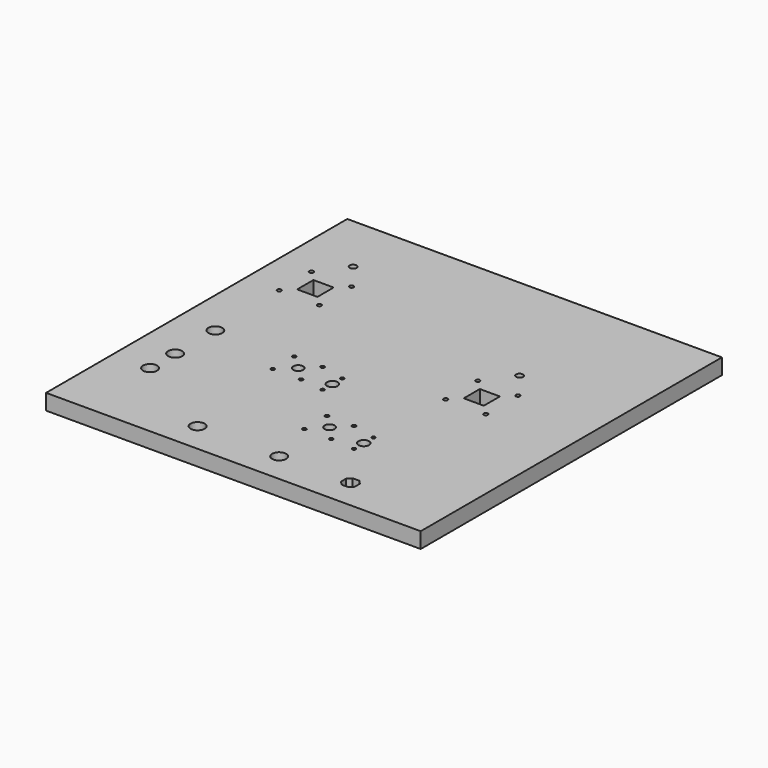
from build123d import *

# Parameters (mm, degrees)
F0_W     = 597
F0_H     = 600
F0_R     = 11.15
F0_R_2   = 2.75
F0_R_3   = 3
F0_R_4   = 8
F0_R_5   = 8.5
F0_R_6   = 3.3
F0_W_2   = 32.3
F0_H_2   = 32.3
F0_R_7   = 5.5
F0_W_3   = 32
F0_H_3   = 32
F1_DEPTH = 25


with BuildPart() as f1:
    # F0 (on Top) → F1 (new body)
    with BuildSketch(Plane.XY):
        Rectangle(F0_W, F0_H)
        with Locations((-239.0813, -167.15)):
            Circle(F0_R, mode=Mode.SUBTRACT)
        with Locations((-95.05, -252.5)):
            Circle(F0_R, mode=Mode.SUBTRACT)
        with Locations((-239.0813, -117.15)):
            Circle(F0_R, mode=Mode.SUBTRACT)
        with Locations((-239.0813, -37.15)):
            Circle(F0_R, mode=Mode.SUBTRACT)
        with Locations((-35.05, -78.5)):
            Circle(F0_R_2, mode=Mode.SUBTRACT)
        with Locations((-118.4, -73.5)):
            Circle(F0_R_3, mode=Mode.SUBTRACT)
        with Locations((-95.05, -52)):
            Circle(F0_R_4, mode=Mode.SUBTRACT)
        with Locations((-118.4, -30.5)):
            Circle(F0_R_3, mode=Mode.SUBTRACT)
        with Locations((-73.4, -73.5)):
            Circle(F0_R_3, mode=Mode.SUBTRACT)
        with Locations((-35.05, -59)):
            Circle(F0_R_5, mode=Mode.SUBTRACT)
        with Locations((-35.05, -39.5)):
            Circle(F0_R_2, mode=Mode.SUBTRACT)
        with Locations((-73.4, -30.5)):
            Circle(F0_R_3, mode=Mode.SUBTRACT)
        with Locations((34.95, -252.5)):
            Circle(F0_R, mode=Mode.SUBTRACT)
        Polygon((159.5, -247.236544), (159.5, -257.763456), (153.763456, -263.5), (143.236544, -263.5), (137.5, -257.763456), (137.5, -247.236544), (143.236544, -241.5), (153.763456, -241.5), align=None, mode=Mode.SUBTRACT)
        with Locations((13.45, -175.35)):
            Circle(F0_R_3, mode=Mode.SUBTRACT)
        with Locations((34.95, -152)):
            Circle(F0_R_4, mode=Mode.SUBTRACT)
        with Locations((56.45, -175.35)):
            Circle(F0_R_3, mode=Mode.SUBTRACT)
        with Locations((94.95, -178.5)):
            Circle(F0_R_2, mode=Mode.SUBTRACT)
        with Locations((94.95, -159)):
            Circle(F0_R_5, mode=Mode.SUBTRACT)
        with Locations((13.45, -130.35)):
            Circle(F0_R_3, mode=Mode.SUBTRACT)
        with Locations((56.45, -130.35)):
            Circle(F0_R_3, mode=Mode.SUBTRACT)
        with Locations((94.95, -139.5)):
            Circle(F0_R_2, mode=Mode.SUBTRACT)
        with Locations((100.7, -3)):
            Circle(F0_R_6, mode=Mode.SUBTRACT)
        with Locations((164.7, -3)):
            Circle(F0_R_6, mode=Mode.SUBTRACT)
        with Locations((-244.5, 97)):
            Circle(F0_R_6, mode=Mode.SUBTRACT)
        with Locations((-180.5, 97)):
            Circle(F0_R_6, mode=Mode.SUBTRACT)
        with Locations((-212.5, 129)):
            Rectangle(F0_W_2, F0_H_2, mode=Mode.SUBTRACT)
        with Locations((-244.5, 161)):
            Circle(F0_R_6, mode=Mode.SUBTRACT)
        with Locations((-180.5, 161)):
            Circle(F0_R_6, mode=Mode.SUBTRACT)
        with Locations((-212.5, 204.15)):
            Circle(F0_R_7, mode=Mode.SUBTRACT)
        with Locations((132.55, 29.15)):
            Rectangle(F0_W_3, F0_H_3, mode=Mode.SUBTRACT)
        with Locations((100.7, 61)):
            Circle(F0_R_6, mode=Mode.SUBTRACT)
        with Locations((132.7, 104.15)):
            Circle(F0_R_7, mode=Mode.SUBTRACT)
        with Locations((164.7, 61)):
            Circle(F0_R_6, mode=Mode.SUBTRACT)
    extrude(amount=F1_DEPTH)


solid = f1.part
